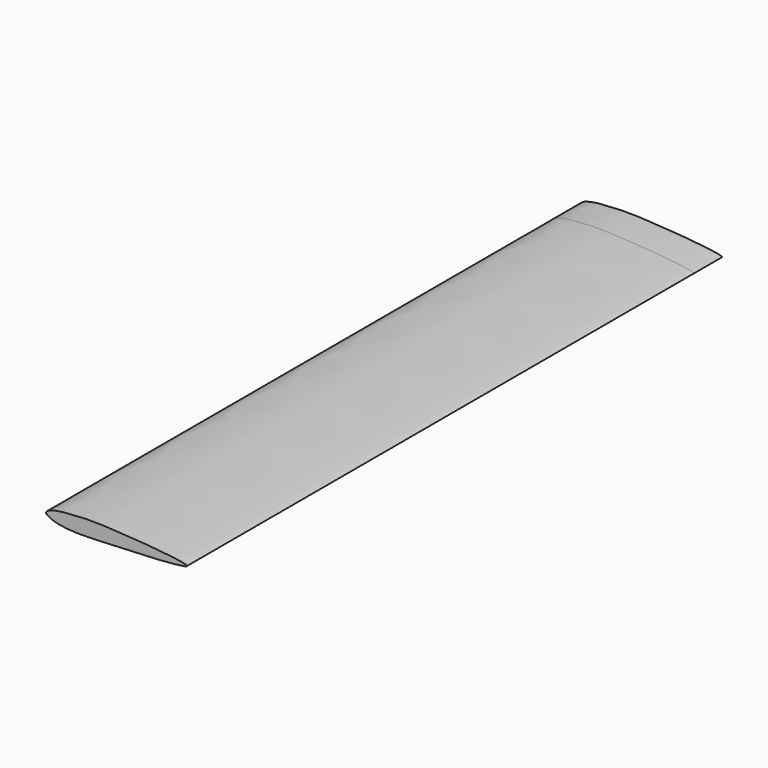
from build123d import *

# Parameters (mm, degrees)
F1_DEPTH = 25
F2_DEPTH = 450


with BuildPart() as f1:
    # F0 (on Front) → F1 (new body)
    with BuildSketch(Plane.XZ):
        with BuildLine():
            add(Edge.make_bspline(
                [(-107.8772624077, -15.808079202), (-107.7232320048, -14.3695511511), (-98.9328043359, -11.5138031173), (-82.6805995953, -10.9025528164), (-68.812329529, -10.0412460654), (30.8653738518, -17.5047557331), (-69.9310208485, -21.304298007), (-82.9310590858, -21.9250406965), (-100.5743569271, -21.0068200428), (-108.0212650582, -17.1529555916), (-107.8772624077, -15.808079202)],
                knots=[0, 0, 0, 0, 0.0773714587, 0.1823330617, 0.3008821209, 0.5008178652, 0.702225788, 0.819338417, 0.9276656107, 1, 1, 1, 1], degree=3))
        make_face()
    extrude(amount=F1_DEPTH)

    # F2 (add): a face of the model
    f2_faces = [f1.faces().sort_by_distance(p)[0] for p in [
        (-63.6610043566, -25, -16.2274060581),
    ]]
    extrude(f2_faces, amount=F2_DEPTH)


solid = f1.part
